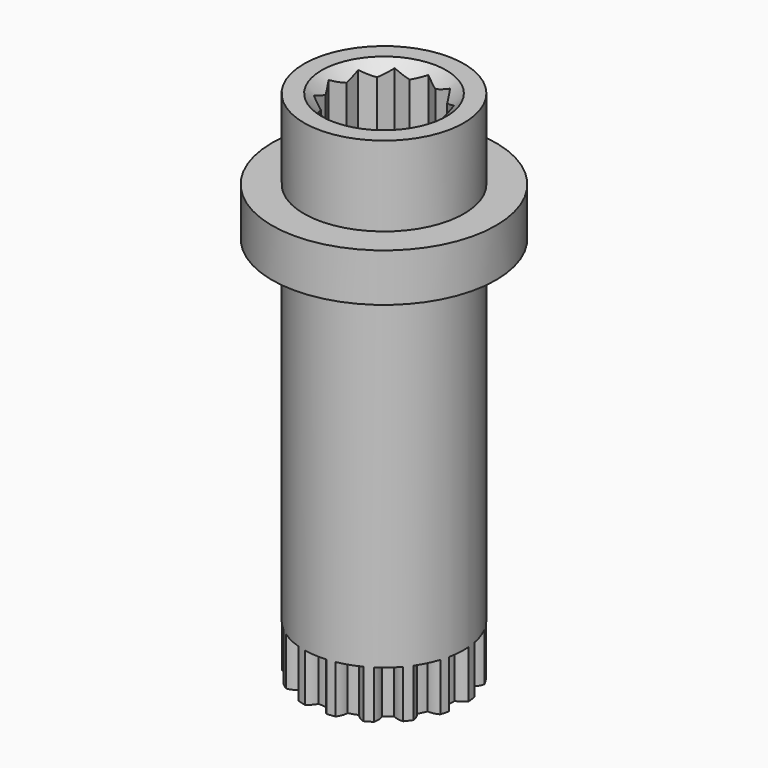
from build123d import *

# Parameters (mm, degrees)
F0_W     = 15.875
F0_H     = 101.6
F4_DEPTH = 19.05
F7_DEPTH = 9.525
F8_W     = 22.225
F8_H     = 9.525


with BuildPart() as f1:
    # F0 (on Front) → F1 (revolve)
    with BuildSketch(Plane.XZ):
        with Locations((-7.9375, 50.8)):
            Rectangle(F0_W, F0_H)
    revolve(axis=Axis((0, 0, 50.8), (0, 0, -1)))

    # F3 (on face) → F4 (cut)
    with BuildSketch(Plane.XY.offset(101.6)):
        Polygon((-2.5522160579, 9.525), (-5.499261314, 9.525), (-6.9727839421, 6.9727839421), (-9.525, 5.499261314), (-9.525, 2.5522160579), (-10.9985226281, 0), (-9.525, -2.5522160579), (-9.525, -5.499261314), (-6.9727839421, -6.9727839421), (-5.499261314, -9.525), (-2.5522160579, -9.525), (0, -10.9985226281), (2.5522160579, -9.525), (5.499261314, -9.525), (6.9727839421, -6.9727839421), (9.525, -5.499261314), (9.525, -2.5522160579), (10.9985226281, 0), (9.525, 2.5522160579), (9.525, 5.499261314), (6.9727839421, 6.9727839421), (5.499261314, 9.525), (2.5522160579, 9.525), (0, 10.9985226281), align=None)
    extrude(amount=-F4_DEPTH, mode=Mode.SUBTRACT)

    # F5 (on Front) → F6 (revolve, cut)
    with BuildSketch(Plane.XZ):
        Polygon((0, 104.775), (-15.875, 104.775), (-8.89, 98.425), (0, 98.425), align=None)
    revolve(axis=Axis((0, 0, 101.6), (0, 0, 1)), mode=Mode.SUBTRACT)

    # F2 (on face) → F7 (cut)
    with BuildSketch(Plane(origin=(0, 0, 0), x_dir=(1, 0, 0), z_dir=(0, 0, -1))):
        with BuildLine():
            ThreePointArc((0, 14.0277836472), (0.4898902934, 15.0175176857), (1.2417837674, 15.8263577008))
            ThreePointArc((1.2417837674, 15.8263577008), (-1.0382746765, 15.8410104064), (-3.2969143426, 15.52887571))
            ThreePointArc((-3.2969143426, 15.52887571), (-2.4458786141, 14.8250972254), (-1.8309931848, 13.9077740135))
            ThreePointArc((-1.8309931848, 13.9077740135), (-0.9179538731, 14.0052696896), (0, 14.0277836472))
        make_face()
        with BuildLine():
            ThreePointArc((-5.3682003946, 12.9599821981), (-5.2943555983, 14.0618501179), (-4.9092262803, 15.0968580284))
            ThreePointArc((-4.9092262803, 15.0968580284), (-7.0213329572, 14.2378547718), (-8.988595139, 13.0851359346))
            ThreePointArc((-8.988595139, 13.0851359346), (-7.933016282, 12.7606066709), (-7.0138918236, 12.1484169972))
            ThreePointArc((-7.0138918236, 12.1484169972), (-6.2076634712, 12.5878962746), (-5.3682003946, 12.9599821981))
        make_face()
        with BuildLine():
            ThreePointArc((-9.9191409419, 9.9191409419), (-10.2725838436, 10.9653933406), (-10.312851129, 12.0689985745))
            ThreePointArc((-10.312851129, 12.0689985745), (-11.9354569437, 10.4671148147), (-13.3118438074, 8.6493028302))
            ThreePointArc((-13.3118438074, 8.6493028302), (-12.2124241339, 8.7534294258), (-11.1289890134, 8.5395736189))
            ThreePointArc((-11.1289890134, 8.5395736189), (-10.5523125784, 9.2541297614), (-9.9191409419, 9.9191409419))
        make_face()
        with BuildLine():
            ThreePointArc((-12.9599821981, 5.3682003946), (-13.6869043199, 6.1995548288), (-14.1464378796, 7.2037434933))
            ThreePointArc((-14.1464378796, 7.2037434933), (-15.0325158057, 5.1028515117), (-15.6084849282, 2.8966917759))
            ThreePointArc((-15.6084849282, 2.8966917759), (-14.6326011173, 3.4136219008), (-13.5497985104, 3.6306575685))
            ThreePointArc((-13.5497985104, 3.6306575685), (-13.2904677524, 4.5115058809), (-12.9599821981, 5.3682003946))
        make_face()
        with BuildLine():
            ThreePointArc((-14.0277836472, 0), (-15.0175176857, 0.4898902934), (-15.8263577008, 1.2417837674))
            ThreePointArc((-15.8263577008, 1.2417837674), (-15.8410104064, -1.0382746765), (-15.52887571, -3.2969143426))
            ThreePointArc((-15.52887571, -3.2969143426), (-14.8250972254, -2.4458786141), (-13.9077740135, -1.8309931848))
            ThreePointArc((-13.9077740135, -1.8309931848), (-14.0052696896, -0.9179538731), (-14.0277836472, 0))
        make_face()
        with BuildLine():
            ThreePointArc((-12.9599821981, -5.3682003946), (-14.0618501179, -5.2943555983), (-15.0968580284, -4.9092262803))
            ThreePointArc((-15.0968580284, -4.9092262803), (-14.2378547718, -7.0213329572), (-13.0851359346, -8.988595139))
            ThreePointArc((-13.0851359346, -8.988595139), (-12.7606066709, -7.933016282), (-12.1484169972, -7.0138918236))
            ThreePointArc((-12.1484169972, -7.0138918236), (-12.5878962746, -6.2076634712), (-12.9599821981, -5.3682003946))
        make_face()
        with BuildLine():
            ThreePointArc((-9.9191409419, -9.9191409419), (-10.9653933406, -10.2725838436), (-12.0689985745, -10.312851129))
            ThreePointArc((-12.0689985745, -10.312851129), (-10.4671148147, -11.9354569437), (-8.6493028302, -13.3118438074))
            ThreePointArc((-8.6493028302, -13.3118438074), (-8.7534294258, -12.2124241339), (-8.5395736189, -11.1289890134))
            ThreePointArc((-8.5395736189, -11.1289890134), (-9.2541297614, -10.5523125784), (-9.9191409419, -9.9191409419))
        make_face()
        with BuildLine():
            ThreePointArc((-5.3682003946, -12.9599821981), (-6.1995548288, -13.6869043199), (-7.2037434933, -14.1464378796))
            ThreePointArc((-7.2037434933, -14.1464378796), (-5.1028515117, -15.0325158057), (-2.8966917759, -15.6084849282))
            ThreePointArc((-2.8966917759, -15.6084849282), (-3.4136219008, -14.6326011173), (-3.6306575685, -13.5497985104))
            ThreePointArc((-3.6306575685, -13.5497985104), (-4.5115058809, -13.2904677524), (-5.3682003946, -12.9599821981))
        make_face()
        with BuildLine():
            ThreePointArc((-1.2417837674, -15.8263577008), (1.0382746765, -15.8410104064), (3.2969143426, -15.52887571))
            ThreePointArc((3.2969143426, -15.52887571), (2.4458786141, -14.8250972254), (1.8309931848, -13.9077740135))
            ThreePointArc((1.8309931848, -13.9077740135), (0.9179538731, -14.0052696896), (0, -14.0277836472))
            ThreePointArc((0, -14.0277836472), (-0.4898902934, -15.0175176857), (-1.2417837674, -15.8263577008))
        make_face()
        with BuildLine():
            ThreePointArc((4.9092262803, -15.0968580284), (7.0213329572, -14.2378547718), (8.988595139, -13.0851359346))
            ThreePointArc((8.988595139, -13.0851359346), (7.933016282, -12.7606066709), (7.0138918236, -12.1484169972))
            ThreePointArc((7.0138918236, -12.1484169972), (6.2076634712, -12.5878962746), (5.3682003946, -12.9599821981))
            ThreePointArc((5.3682003946, -12.9599821981), (5.2943555983, -14.0618501179), (4.9092262803, -15.0968580284))
        make_face()
        with BuildLine():
            ThreePointArc((10.312851129, -12.0689985745), (11.9354569437, -10.4671148147), (13.3118438074, -8.6493028302))
            ThreePointArc((13.3118438074, -8.6493028302), (12.2124241339, -8.7534294258), (11.1289890134, -8.5395736189))
            ThreePointArc((11.1289890134, -8.5395736189), (10.5523125784, -9.2541297614), (9.9191409419, -9.9191409419))
            ThreePointArc((9.9191409419, -9.9191409419), (10.2725838436, -10.9653933406), (10.312851129, -12.0689985745))
        make_face()
        with BuildLine():
            ThreePointArc((14.1464378796, -7.2037434933), (15.0325158057, -5.1028515117), (15.6084849282, -2.8966917759))
            ThreePointArc((15.6084849282, -2.8966917759), (14.6326011173, -3.4136219008), (13.5497985104, -3.6306575685))
            ThreePointArc((13.5497985104, -3.6306575685), (13.2904677524, -4.5115058809), (12.9599821981, -5.3682003946))
            ThreePointArc((12.9599821981, -5.3682003946), (13.6869043199, -6.1995548288), (14.1464378796, -7.2037434933))
        make_face()
        with BuildLine():
            ThreePointArc((15.875, 0), (15.7882318025, 1.6575166821), (15.52887571, 3.2969143426))
            ThreePointArc((15.52887571, 3.2969143426), (14.8250972254, 2.4458786141), (13.9077740135, 1.8309931848))
            ThreePointArc((13.9077740135, 1.8309931848), (14.0052696896, 0.9179538731), (14.0277836472, 0))
            ThreePointArc((14.0277836472, 0), (15.0175176857, -0.4898902934), (15.8263577008, -1.2417837674))
            ThreePointArc((15.8263577008, -1.2417837674), (15.862834764, -0.6213680468), (15.875, 0))
        make_face()
        with BuildLine():
            ThreePointArc((15.0968580284, 4.9092262803), (14.2378547718, 7.0213329572), (13.0851359346, 8.988595139))
            ThreePointArc((13.0851359346, 8.988595139), (12.7606066709, 7.933016282), (12.1484169972, 7.0138918236))
            ThreePointArc((12.1484169972, 7.0138918236), (12.5878962746, 6.2076634712), (12.9599821981, 5.3682003946))
            ThreePointArc((12.9599821981, 5.3682003946), (14.0618501179, 5.2943555983), (15.0968580284, 4.9092262803))
        make_face()
        with BuildLine():
            ThreePointArc((12.0689985745, 10.312851129), (10.4671148147, 11.9354569437), (8.6493028302, 13.3118438074))
            ThreePointArc((8.6493028302, 13.3118438074), (8.7534294258, 12.2124241339), (8.5395736189, 11.1289890134))
            ThreePointArc((8.5395736189, 11.1289890134), (9.2541297614, 10.5523125784), (9.9191409419, 9.9191409419))
            ThreePointArc((9.9191409419, 9.9191409419), (10.9653933406, 10.2725838436), (12.0689985745, 10.312851129))
        make_face()
        with BuildLine():
            ThreePointArc((7.2037434933, 14.1464378796), (5.1028515117, 15.0325158057), (2.8966917759, 15.6084849282))
            ThreePointArc((2.8966917759, 15.6084849282), (3.4136219008, 14.6326011173), (3.6306575685, 13.5497985104))
            ThreePointArc((3.6306575685, 13.5497985104), (4.5115058809, 13.2904677524), (5.3682003946, 12.9599821981))
            ThreePointArc((5.3682003946, 12.9599821981), (6.1995548288, 13.6869043199), (7.2037434933, 14.1464378796))
        make_face()
    extrude(amount=-F7_DEPTH, mode=Mode.SUBTRACT)

    # F8 (on Front) → F9 (revolve)
    with BuildSketch(Plane.XZ):
        with Locations((-11.1125, 80.9625)):
            Rectangle(F8_W, F8_H)
    revolve(axis=Axis((0, 0, 55.1995858796), (0, 0, 1)))


solid = f1.part
